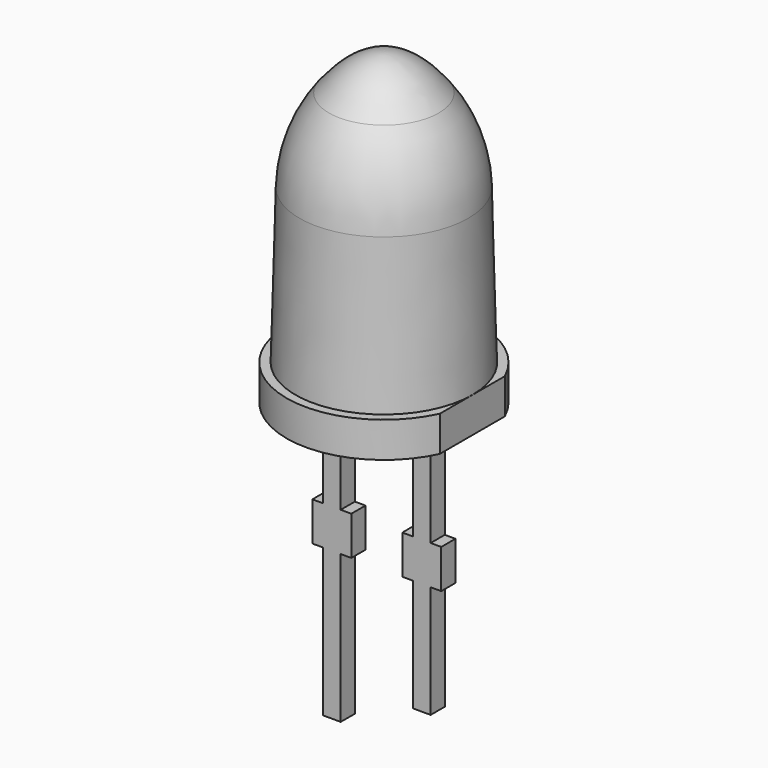
from build123d import *

# Parameters (mm, degrees)
PAD002_DEPTH             = 1
PAD003_DEPTH             = 0.25
BODY001_PLACEMENT_ANGLE  = 90
CLONE010_PLACEMENT_ANGLE = 180


with BuildPart() as part:
    # Sketch003 → Pad002 (new body)
    with BuildSketch(Plane.XY):
        with BuildLine():
            ThreePointArc((1.1456439239, -2.4999999999), (0, 2.75), (-1.1456439239, -2.4999999999))
            Line((-1.1456439239, -2.5), (1.1456439239, -2.5))
        make_face()
    extrude(amount=PAD002_DEPTH)

    # Sketch004 → Revolution001 (revolve)
    with BuildSketch(Plane.YZ):
        with BuildLine():
            add(Edge.make_bspline(
                [(-1.5494288107, 7.7), (-0.7747144053, 8.7), (0, 8.7)],
                knots=[-1.5494288107, -1.5494288107, -1.5494288107, 0, 0, 0], degree=2))
            Line((0, 8.7), (0, 1))
            Line((0, 1), (-2.5, 1))
            Line((-2.5, 1), (-2.3859606946, 5.3549853739))
            ThreePointArc((-2.3859606946, 5.3549853739), (-2.1547940918, 6.5942362206), (-1.5494288107, 7.7))
        make_face()
    revolve(axis=Axis((0, 0, 0), (0, 0, 1)))

    # Sketch005 → Pad003 (join, symmetric)
    with BuildSketch(Plane.YZ):
        Polygon((-1.52, 0), (-1.52, -2.9), (-1.82, -2.9), (-1.82, -4), (-1.52, -4), (-1.52, -7.175), (-1.02, -7.175), (-1.02, -4), (-0.72, -4), (-0.72, -2.9), (-1.02, -2.9), (-1.02, 0), align=None)
        Polygon((1.02, 0), (1.52, 0), (1.52, -2.9), (1.82, -2.9), (1.82, -4), (1.52, -4), (1.52, -8.175), (1.02, -8.175), (1.02, -4), (0.72, -4), (0.72, -2.9), (1.02, -2.9), align=None)
    extrude(amount=PAD003_DEPTH, both=True)


with BuildPart() as part_1:
    # Body001 placement: moved
    add(part.part.moved(Location((-3.81, 6.35, 4.445))).rotate(Axis((-3.81, 6.35, 4.445), (0, 0, -1)), BODY001_PLACEMENT_ANGLE))


with BuildPart() as part_2:
    # Clone010 placement: moved
    add(part_1.part.moved(Location((0, 0, 0))).rotate(Axis((0, 0, 0), (0, 0, 1)), CLONE010_PLACEMENT_ANGLE))


solid = part_2.part
